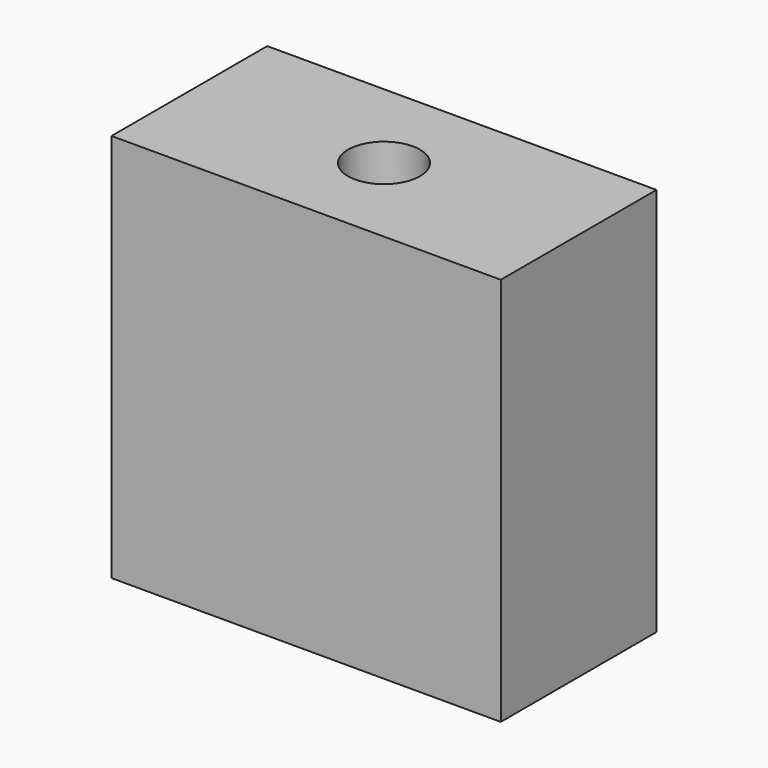
from build123d import *

# Parameters (mm, degrees)
F0_W     = 20
F0_H     = 20
F1_DEPTH = 10
F2_R     = 1.85
F3_DEPTH = 25


with BuildPart() as f1:
    # F0 (on Front) → F1 (new body)
    with BuildSketch(Plane.XZ):
        with Locations((0, 0.253849)):
            Rectangle(F0_W, F0_H)
    extrude(amount=F1_DEPTH)

    # F2 (on face) → F3 (cut)
    with BuildSketch(Plane.XY.offset(10.253849)):
        with Locations((0, -5)):
            Circle(F2_R)
    extrude(amount=-F3_DEPTH, mode=Mode.SUBTRACT)


solid = f1.part
